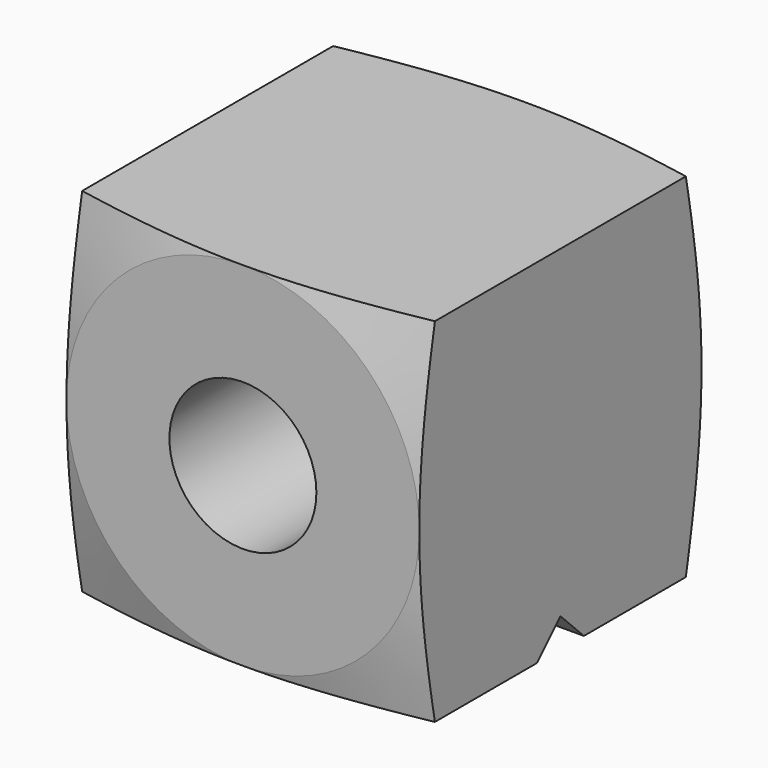
from build123d import *

# Parameters (mm, degrees)
F0_R     = 3.96875
F1_DEPTH = 19.05
F3_DEPTH = 19.05


with BuildPart() as f1:
    # F0 (on Front) → F1 (new body)
    with BuildSketch(Plane.XZ):
        with BuildLine():
            Line((-9.525, 0), (-9.525, -9.525))
            Line((-9.525, -9.525), (0, -9.525))
            ThreePointArc((0, -9.525), (-6.7351920908, -6.7351920908), (-9.525, 0))
        make_face()
        with BuildLine():
            ThreePointArc((9.525, 0), (6.7351920908, -6.7351920908), (0, -9.525))
            Line((0, -9.525), (9.525, -9.525))
            Line((9.525, -9.525), (9.525, 0))
        make_face()
        with BuildLine():
            ThreePointArc((-9.525, 0), (-6.7351920908, -6.7351920908), (0, -9.525))
            ThreePointArc((0, -9.525), (6.7351920908, -6.7351920908), (9.525, 0))
            ThreePointArc((9.525, 0), (6.7351920908, 6.7351920908), (0, 9.525))
            ThreePointArc((0, 9.525), (-6.7351920908, 6.7351920908), (-9.525, 0))
        make_face()
        Circle(F0_R, mode=Mode.SUBTRACT)
        with BuildLine():
            Line((-9.525, 9.525), (-9.525, 0))
            ThreePointArc((-9.525, 0), (-6.7351920908, 6.7351920908), (0, 9.525))
            Line((0, 9.525), (-9.525, 9.525))
        make_face()
        with BuildLine():
            ThreePointArc((0, 9.525), (6.7351920908, 6.7351920908), (9.525, 0))
            Line((9.525, 0), (9.525, 9.525))
            Line((9.525, 9.525), (0, 9.525))
        make_face()
    extrude(amount=F1_DEPTH)

    # F2 (on face) → F3 (cut)
    with BuildSketch(Plane.YZ.offset(9.525)):
        Polygon((-7.9375, -9.525), (-9.525, -7.9375), (-11.1125, -9.525), align=None)
    extrude(amount=-F3_DEPTH, mode=Mode.SUBTRACT)

    # F5 (on mid) → F6 (revolve, cut)
    with BuildSketch(Plane.YZ):
        Polygon((-19.05, 20.5410033949), (-19.05, 9.525), (-16.0982707865, 20.5410033949), align=None)
        Polygon((-2.9517292135, 20.5410033949), (0, 9.525), (0, 20.5410033949), align=None)
    revolve(axis=Axis((0, 0, 0), (0, 1, 0)), mode=Mode.SUBTRACT)


solid = f1.part
